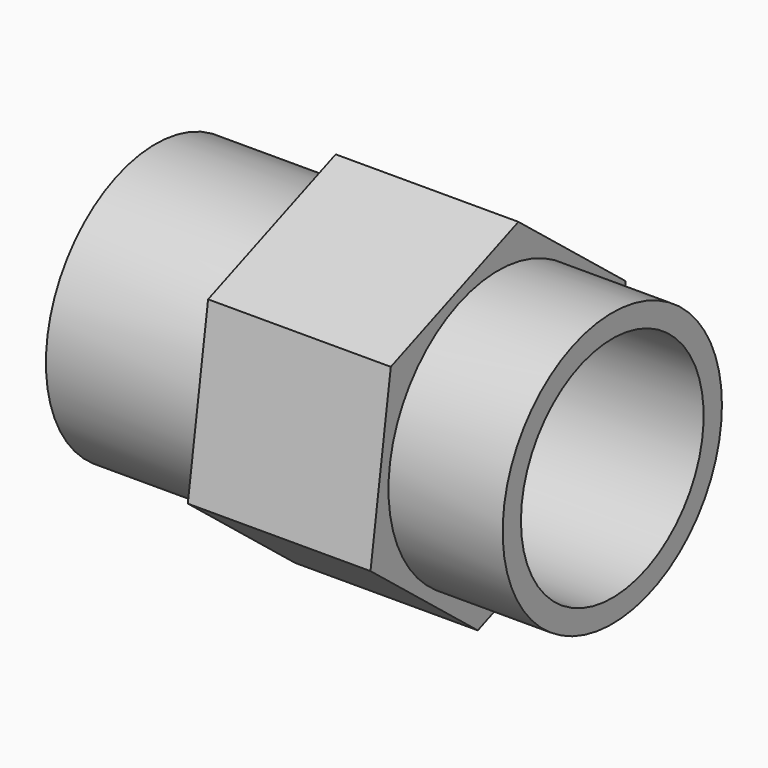
from build123d import *

# Parameters (mm, degrees)
F1_DEPTH      = 10.16
F2_R          = 7.62
F3_DEPTH      = 6.35
F3_DEPTH_BACK = 19.05
F4_R          = 6.35
F5_DEPTH      = 25.401


with BuildPart() as f1:
    # F0 (on Right) → F1 (new body)
    with BuildSketch(Plane.YZ):
        Polygon((1.410603, 9.427101), (-7.458808, 5.935168), (-8.86941, -3.491933), (-1.410603, -9.427101), (7.458808, -5.935168), (8.86941, 3.491933), align=None)
    extrude(amount=F1_DEPTH)

    # F2 (on face) → F3 (join, two sides)
    with BuildSketch(Plane.YZ.offset(10.16)) as f3_sk:
        Circle(F2_R)
    extrude(amount=F3_DEPTH)
    extrude(f3_sk.sketch, amount=-F3_DEPTH_BACK)

    # F4 (on face) → F5 (cut, through all)
    with BuildSketch(Plane(origin=(-8.89, 0, 0), x_dir=(0, -1, 0), z_dir=(-1, 0, 0))):
        Circle(F4_R)
    extrude(amount=-F5_DEPTH, mode=Mode.SUBTRACT)


solid = f1.part
